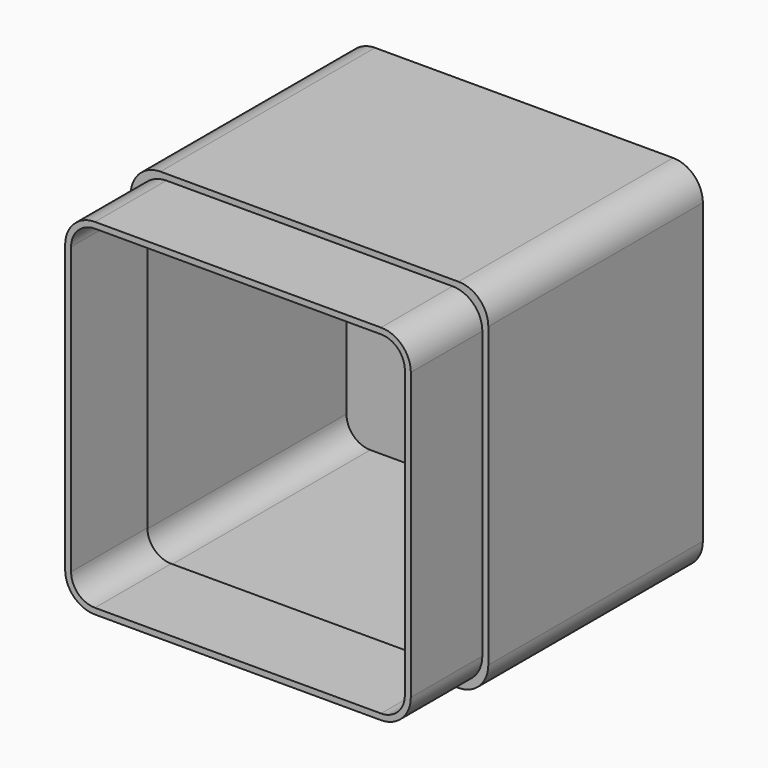
from build123d import *

# Parameters (mm, degrees)
F0_W     = 30.48
F0_H     = 30.48
F1_DEPTH = 22.86
F2_W     = 29.464
F2_H     = 29.464
F3_DEPTH = 7.62
F4_R     = 2.54
F5_T     = -0.508


with BuildPart() as f1:
    # F0 (on Front) → F1 (new body)
    with BuildSketch(Plane.XZ):
        with Locations((15.24, 15.24)):
            Rectangle(F0_W, F0_H)
    extrude(amount=F1_DEPTH)

    # F2 (on face) → F3 (join)
    with BuildSketch(Plane.XZ.offset(22.86)):
        with Locations((15.24, 15.24)):
            Rectangle(F2_W, F2_H)
    extrude(amount=F3_DEPTH)

    # F4
    f4_edges = [f1.edges().sort_by_distance(p)[0] for p in [
        (30.48, -11.43, 30.48),
        (29.972, -26.67, 29.972),
        (0.508, -26.67, 29.972),
        (0, -11.43, 30.48),
        (0, -11.43, 0),
        (0.508, -26.67, 0.508),
        (30.48, -11.43, 0),
        (29.972, -26.67, 0.508),
    ]]
    fillet(f4_edges, radius=F4_R)

    # F5
    f5_openings = [f1.faces().sort_by_distance(p)[0] for p in [
        (15.24, -30.48, 15.24),
    ]]
    offset(amount=F5_T, openings=f5_openings, kind=Kind.INTERSECTION)


solid = f1.part
